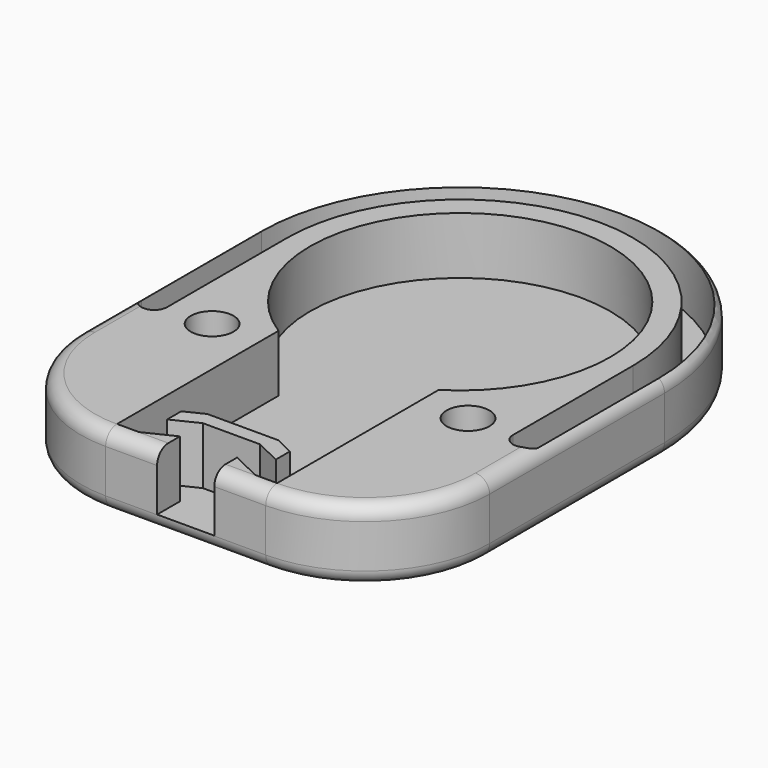
from build123d import *

# Parameters (mm, degrees)
PAD020_DEPTH         = 2
PAD020_DEPTH_BACK    = 0.5
FILLET003_R          = 0.49
POCKET007_DEPTH      = 2.001
SKETCH044_R          = 0.75
POCKET008_DEPTH      = 2.0010001
POCKET008_DEPTH_BACK = 0.501


with BuildPart() as part:
    # Sketch040 → Pad020 (new body, two sides)
    with BuildSketch(Plane.XY) as pad020_sk:
        with BuildLine():
            ThreePointArc((7.15, 0), (0, 7.15), (-7.15, 0))
            Line((-7.15, 0), (-7.15, -7.65))
            ThreePointArc((-7.15, -7.65), (-5.8759144982, -10.7259144982), (-2.8, -12))
            Line((-2.8, -12), (2.8, -12))
            ThreePointArc((2.8, -12), (5.8759144982, -10.7259144982), (7.15, -7.65))
            Line((7.15, 0), (7.15, -7.65))
        make_face()
    extrude(amount=PAD020_DEPTH)
    extrude(pad020_sk.sketch, amount=-PAD020_DEPTH_BACK)

    # Fillet003
    fillet003_edges = [part.edges().sort_by_distance(p)[0] for p in [
        (0, 7.15, -0.5),
        (-7.15, -3.825, -0.5),
        (-5.875914, -10.725914, -0.5),
        (0, -12, -0.5),
        (5.875914, -10.725914, -0.5),
        (7.15, -3.825, -0.5),
        (0, 7.15, 2),
        (-7.15, -3.825, 2),
        (-5.875914, -10.725914, 2),
        (0, -12, 2),
        (5.875914, -10.725914, 2),
        (7.15, -3.825, 2),
    ]]
    fillet(fillet003_edges, radius=FILLET003_R)

    # Sketch043 → Pocket007 (cut, through all)
    with BuildSketch(Plane.XY):
        with BuildLine():
            Line((1, -12), (1, -11))
            Line((1, -11), (2.0323708024, -11.5))
            Line((2.0323708024, -11.5), (2.8, -11.5))
            Line((2.8, -11.5), (2.8, -4.4410021392))
            ThreePointArc((2.8, -4.4410021392), (0, 5.25), (-2.8, -4.4410021392))
            Line((-2.8, -11.5), (-2.8, -4.4410021392))
            Line((-2.8, -11.5), (-2.0323708024, -11.5))
            Line((-2.0323708024, -11.5), (-1, -11))
            Line((-1, -11), (-1, -12))
            Line((-1, -12), (1, -12))
        make_face()
        Polygon((1.2421610524, -9.5), (-1.2421610524, -9.5), (-1.9, -9.8186059437), (-1.9, -10.4358898944), (-1, -10), (1, -10), (1.9, -10.4358898944), (1.9, -9.8186059437), align=None, mode=Mode.SUBTRACT)
        with BuildLine():
            ThreePointArc((6.05, 0), (0, 6.05), (-6.05, 0))
            Line((-6.05, -5.25), (-6.05, 0))
            ThreePointArc((-6.95, -5.25), (-6.5, -5.7), (-6.05, -5.25))
            Line((-6.95, 0), (-6.95, -5.25))
            ThreePointArc((6.95, 0), (0, 6.95), (-6.95, 0))
            Line((6.95, 0), (6.95, -5.25))
            ThreePointArc((6.05, -5.25), (6.5, -5.7), (6.95, -5.25))
            Line((6.05, 0), (6.05, -5.25))
        make_face()
    extrude(amount=POCKET007_DEPTH, mode=Mode.SUBTRACT)

    # Sketch044 → Pocket008 (cut, two sides)
    with BuildSketch(Plane.XY) as pocket008_sk:
        with Locations((4.475757, -5.25)):
            Circle(SKETCH044_R)
        with Locations((-4.475757, -5.25)):
            Circle(SKETCH044_R)
    extrude(amount=POCKET008_DEPTH, mode=Mode.SUBTRACT)
    extrude(pocket008_sk.sketch, amount=-POCKET008_DEPTH_BACK, mode=Mode.SUBTRACT)


solid = part.part
